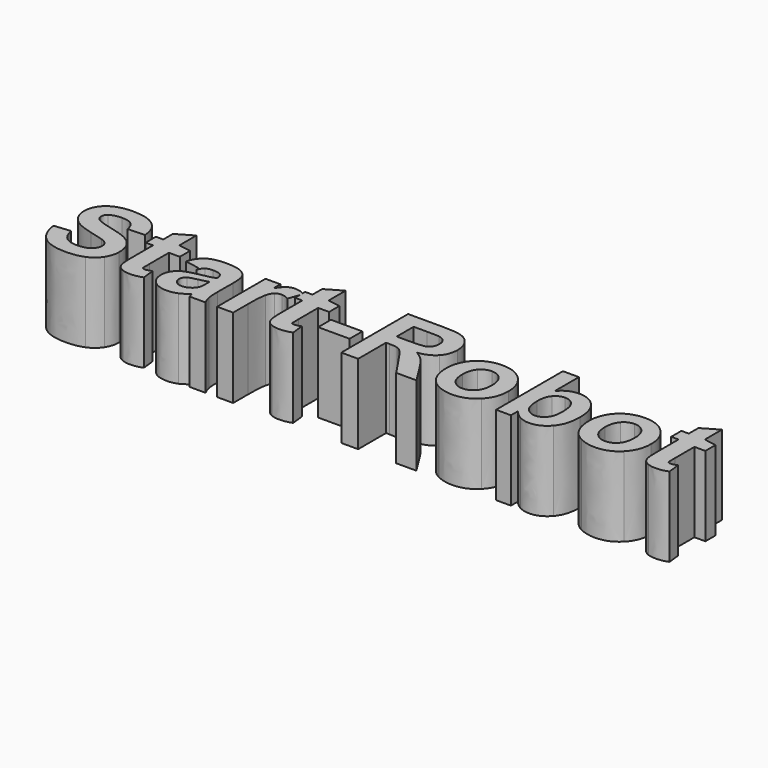
from build123d import *

# Parameters (mm, degrees)
EXTRUDE006_DEPTH = 5
EXTRUDE008_DEPTH = 5
EXTRUDE007_DEPTH = 5
EXTRUDE003_DEPTH = 5
EXTRUDE002_DEPTH = 5
EXTRUDE004_DEPTH = 5
EXTRUDE005_DEPTH = 5
EXTRUDE015_DEPTH = 5
EXTRUDE012_DEPTH = 5
EXTRUDE011_DEPTH = 5
EXTRUDE014_DEPTH = 5
EXTRUDE013_DEPTH = 5
EXTRUDE001_DEPTH = 5
EXTRUDE010_DEPTH = 5
EXTRUDE009_DEPTH = 5
EXTRUDE_DEPTH    = 5


with BuildPart() as extrude006:
    # path3035 → Extrude006 (new body)
    with BuildSketch(Plane(origin=(0.650188, -3.771065, 0), x_dir=(0, -1, 0), z_dir=(0, 0, -1))):
        with BuildLine():
            add(Edge.make_bspline(
                [(0.502908, 0.987919), (-0.502908, 0.987919)],
                knots=[0, 0, 3.563917, 3.563917], degree=1))
            add(Edge.make_bspline(
                [(-0.502908, 0.987919), (-0.502908, -0.987919)],
                knots=[0, 0, 7.001004, 7.001004], degree=1))
            add(Edge.make_bspline(
                [(-0.502908, -0.987919), (0.502908, -0.987919)],
                knots=[0, 0, 3.563917, 3.563917], degree=1))
            add(Edge.make_bspline(
                [(0.502908, -0.987919), (0.502908, 0.987919)],
                knots=[0, 0, 7.001004, 7.001004], degree=1))
        make_face()
    extrude(amount=-EXTRUDE006_DEPTH)


with BuildPart() as extrude008:
    # path3037001 → Extrude008 (new body)
    with BuildSketch(Plane(origin=(4.365625, -1.979568, 0), x_dir=(0, 1, 0), z_dir=(0, 0, 1))):
        with BuildLine():
            add(Edge.make_bspline(
                [(-0.66577, 1.070246), (-0.66577, 0.286354)],
                knots=[0, 0, 2.777572, 2.777572], degree=1))
            add(Edge.make_bspline(
                [(-0.66577, 0.286354), (-0.665773, -0.221921), (-0.644297, -0.539296), (-0.601341, -0.665772)],
                knots=[0, 0, 0, 0, 1, 1, 1, 1], degree=3))
            add(Edge.make_bspline(
                [(-0.601341, -0.665772), (-0.558391, -0.792241), (-0.484416, -0.891271), (-0.379417, -0.962864)],
                knots=[0, 0, 0, 0, 1, 1, 1, 1], degree=3))
            add(Edge.make_bspline(
                [(-0.379417, -0.962864), (-0.274424, -1.034448), (-0.143179, -1.070242), (0.014319, -1.070246)],
                knots=[0, 0, 0, 0, 1, 1, 1, 1], degree=3))
            add(Edge.make_bspline(
                [(0.014319, -1.070246), (0.1909, -1.070242), (0.33348, -1.023113), (0.44206, -0.928859)],
                knots=[0, 0, 0, 0, 1, 1, 1, 1], degree=3))
            add(Edge.make_bspline(
                [(0.44206, -0.928859), (0.550631, -0.834598), (0.619237, -0.701563), (0.647876, -0.529754)],
                knots=[0, 0, 0, 0, 1, 1, 1, 1], degree=3))
            add(Edge.make_bspline(
                [(0.647876, -0.529754), (0.659803, -0.443845), (0.665769, -0.186127), (0.665773, 0.2434)],
                knots=[0, 0, 0, 0, 1, 1, 1, 1], degree=3))
            add(Edge.make_bspline(
                [(0.665773, 0.2434), (0.665773, 1.070246)],
                knots=[0, 0, 2.929768, 2.929768], degree=1))
            add(Edge.make_bspline(
                [(0.665773, 1.070246), (-0.66577, 1.070246)],
                knots=[0, 0, 4.718068, 4.718068], degree=1))
        make_face()
    extrude(amount=EXTRUDE008_DEPTH)


with BuildPart() as cut001:
    # path3037 → Extrude007 (new body)
    with BuildSketch(Plane(origin=(4.594708, -3.049812, 0), x_dir=(0, -1, 0), z_dir=(0, 0, -1))):
        with BuildLine():
            add(Edge.make_bspline(
                [(2.623714, 2.358837), (-2.623714, 2.358837)],
                knots=[0, 0, 18.593246, 18.593246], degree=1))
            add(Edge.make_bspline(
                [(-2.623714, 2.358837), (-2.623714, 0.128859)],
                knots=[0, 0, 7.901496, 7.901496], degree=1))
            add(Edge.make_bspline(
                [(-2.623714, 0.128859), (-2.623708, -0.431913), (-2.576579, -0.83937), (-2.482327, -1.093512)],
                knots=[0, 0, 0, 0, 1, 1, 1, 1], degree=3))
            add(Edge.make_bspline(
                [(-2.482327, -1.093512), (-2.388064, -1.347647), (-2.220428, -1.551077), (-1.979418, -1.703803)],
                knots=[0, 0, 0, 0, 1, 1, 1, 1], degree=3))
            add(Edge.make_bspline(
                [(-1.979418, -1.703803), (-1.7384, -1.85652), (-1.462785, -1.932881), (-1.152573, -1.932886)],
                knots=[0, 0, 0, 0, 1, 1, 1, 1], degree=3))
            add(Edge.make_bspline(
                [(-1.152573, -1.932886), (-0.758833, -1.932881), (-0.433703, -1.817147), (-0.177181, -1.585682)],
                knots=[0, 0, 0, 0, 1, 1, 1, 1], degree=3))
            add(Edge.make_bspline(
                [(-0.177181, -1.585682), (0.079346, -1.354209), (0.241016, -1.008199), (0.30783, -0.547651)],
                knots=[0, 0, 0, 0, 1, 1, 1, 1], degree=3))
            add(Edge.make_bspline(
                [(0.30783, -0.547651), (0.441464, -0.77673), (0.58822, -0.965843), (0.748098, -1.114989)],
                knots=[0, 0, 0, 0, 1, 1, 1, 1], degree=3))
            add(Edge.make_bspline(
                [(0.748098, -1.114989), (0.907981, -1.264127), (1.191948, -1.465171), (1.6, -1.718121)],
                knots=[0, 0, 0, 0, 1, 1, 1, 1], degree=3))
            add(Edge.make_bspline(
                [(1.6, -1.718121), (2.623714, -2.358837)],
                knots=[0, 0, 4.279204, 4.279204], degree=1))
            add(Edge.make_bspline(
                [(2.623714, -2.358837), (2.623714, -1.091722)],
                knots=[0, 0, 4.489775, 4.489775], degree=1))
            add(Edge.make_bspline(
                [(2.623714, -1.091722), (1.481879, -0.325727)],
                knots=[0, 0, 4.871931, 4.871931], degree=1))
            add(Edge.make_bspline(
                [(1.481879, -0.325727), (1.073827, -0.053688), (0.816706, 0.132441), (0.710515, 0.232662)],
                knots=[0, 0, 0, 0, 1, 1, 1, 1], degree=3))
            add(Edge.make_bspline(
                [(0.710515, 0.232662), (0.604327, 0.332889), (0.531546, 0.439078), (0.49217, 0.551231)],
                knots=[0, 0, 0, 0, 1, 1, 1, 1], degree=3))
            add(Edge.make_bspline(
                [(0.49217, 0.551231), (0.452799, 0.663388), (0.433112, 0.841165), (0.43311, 1.084564)],
                knots=[0, 0, 0, 0, 1, 1, 1, 1], degree=3))
            add(Edge.make_bspline(
                [(0.43311, 1.084564), (0.43311, 1.299329)],
                knots=[0, 0, 0.760979, 0.760979], degree=1))
            add(Edge.make_bspline(
                [(0.43311, 1.299329), (2.623714, 1.299329)],
                knots=[0, 0, 7.761983, 7.761983], degree=1))
            add(Edge.make_bspline(
                [(2.623714, 1.299329), (2.623714, 2.358837)],
                knots=[0, 0, 3.754161, 3.754161], degree=1))
        make_face()
    extrude(amount=-EXTRUDE007_DEPTH)

    # Cut001: cut Extrude008
    add(extrude008.part, mode=Mode.SUBTRACT)


with BuildPart() as extrude003:
    # path3029001 → Extrude003 (new body)
    with BuildSketch(Plane(origin=(-8.182026, -4.449365, 0), x_dir=(0, 1, 0), z_dir=(0, 0, 1))):
        with BuildLine():
            add(Edge.make_bspline(
                [(0.601343, -0.678301), (0.558388, -0.549439), (0.507083, -0.345412), (0.447428, -0.06622)],
                knots=[0, 0, 0, 0, 1, 1, 1, 1], degree=3))
            add(Edge.make_bspline(
                [(0.447428, -0.06622), (0.387769, 0.212976), (0.329305, 0.395527), (0.272036, 0.481431)],
                knots=[0, 0, 0, 0, 1, 1, 1, 1], degree=3))
            add(Edge.make_bspline(
                [(0.272036, 0.481431), (0.17897, 0.612678), (0.060849, 0.678301), (-0.082326, 0.678299)],
                knots=[0, 0, 0, 0, 1, 1, 1, 1], degree=3))
            add(Edge.make_bspline(
                [(-0.082326, 0.678299), (-0.223118, 0.678301), (-0.344818, 0.625802), (-0.447427, 0.520805)],
                knots=[0, 0, 0, 0, 1, 1, 1, 1], degree=3))
            add(Edge.make_bspline(
                [(-0.447427, 0.520805), (-0.550037, 0.41581), (-0.601343, 0.282178), (-0.601342, 0.11991)],
                knots=[0, 0, 0, 0, 1, 1, 1, 1], degree=3))
            add(Edge.make_bspline(
                [(-0.601342, 0.11991), (-0.601343, -0.061445), (-0.541686, -0.23445), (-0.422371, -0.399106)],
                knots=[0, 0, 0, 0, 1, 1, 1, 1], degree=3))
            add(Edge.make_bspline(
                [(-0.422371, -0.399106), (-0.331693, -0.520804), (-0.220732, -0.600744), (-0.089485, -0.638927)],
                knots=[0, 0, 0, 0, 1, 1, 1, 1], degree=3))
            add(Edge.make_bspline(
                [(-0.089485, -0.638927), (-0.00358, -0.665174), (0.15988, -0.678298), (0.400895, -0.678301)],
                knots=[0, 0, 0, 0, 1, 1, 1, 1], degree=3))
            add(Edge.make_bspline(
                [(0.400895, -0.678301), (0.601343, -0.678301)],
                knots=[0, 0, 0.710246, 0.710246], degree=1))
        make_face()
    extrude(amount=EXTRUDE003_DEPTH)


with BuildPart() as cut:
    # path3029 → Extrude002 (new body)
    with BuildSketch(Plane(origin=(-8.063905, -3.831915, 0), x_dir=(0, -1, 0), z_dir=(0, 0, -1))):
        with BuildLine():
            add(Edge.make_bspline(
                [(-0.8, 0.785682), (-0.964653, 1.698434)],
                knots=[0, 0, 3.286361, 3.286361], degree=1))
            add(Edge.make_bspline(
                [(-0.964653, 1.698434), (-1.332137, 1.595824), (-1.604172, 1.41924), (-1.780761, 1.16868)],
                knots=[0, 0, 0, 0, 1, 1, 1, 1], degree=3))
            add(Edge.make_bspline(
                [(-1.780761, 1.16868), (-1.957341, 0.918121), (-2.045634, 0.545862), (-2.045637, 0.051901)],
                knots=[0, 0, 0, 0, 1, 1, 1, 1], degree=3))
            add(Edge.make_bspline(
                [(-2.045637, 0.051901), (-2.045634, -0.396717), (-1.992539, -0.730796), (-1.886353, -0.950336)],
                knots=[0, 0, 0, 0, 1, 1, 1, 1], degree=3))
            add(Edge.make_bspline(
                [(-1.886353, -0.950336), (-1.78016, -1.16987), (-1.645336, -1.324382), (-1.481879, -1.413871)],
                knots=[0, 0, 0, 0, 1, 1, 1, 1], degree=3))
            add(Edge.make_bspline(
                [(-1.481879, -1.413871), (-1.318416, -1.503353), (-1.018342, -1.548095), (-0.581656, -1.548099)],
                knots=[0, 0, 0, 0, 1, 1, 1, 1], degree=3))
            add(Edge.make_bspline(
                [(-0.581656, -1.548099), (0.592394, -1.53736)],
                knots=[0, 0, 4.160191, 4.160191], degree=1))
            add(Edge.make_bspline(
                [(0.592394, -1.53736), (0.926474, -1.537357), (1.172857, -1.553464), (1.331544, -1.585682)],
                knots=[0, 0, 0, 0, 1, 1, 1, 1], degree=3))
            add(Edge.make_bspline(
                [(1.331544, -1.585682), (1.490232, -1.617894), (1.660254, -1.678147), (1.841611, -1.766443)],
                knots=[0, 0, 0, 0, 1, 1, 1, 1], degree=3))
            add(Edge.make_bspline(
                [(1.841611, -1.766443), (1.841611, -0.771365)],
                knots=[0, 0, 3.525868, 3.525868], degree=1))
            add(Edge.make_bspline(
                [(1.841611, -0.771365), (1.774795, -0.745112), (1.675764, -0.712898), (1.544519, -0.674721)],
                knots=[0, 0, 0, 0, 1, 1, 1, 1], degree=3))
            add(Edge.make_bspline(
                [(1.544519, -0.674721), (1.711559, -0.502906), (1.836838, -0.319163), (1.920358, -0.12349)],
                knots=[0, 0, 0, 0, 1, 1, 1, 1], degree=3))
            add(Edge.make_bspline(
                [(1.920358, -0.12349), (2.003878, 0.072187), (2.045637, 0.280986), (2.045637, 0.502908)],
                knots=[0, 0, 0, 0, 1, 1, 1, 1], degree=3))
            add(Edge.make_bspline(
                [(2.045637, 0.502908), (2.045637, 0.894259), (1.939448, 1.202685), (1.727069, 1.428188)],
                knots=[0, 0, 0, 0, 1, 1, 1, 1], degree=3))
            add(Edge.make_bspline(
                [(1.727069, 1.428188), (1.514691, 1.653691), (1.246235, 1.766443), (0.9217, 1.766443)],
                knots=[0, 0, 0, 0, 1, 1, 1, 1], degree=3))
            add(Edge.make_bspline(
                [(0.9217, 1.766443), (0.706936, 1.766443), (0.515438, 1.715138), (0.347204, 1.612528)],
                knots=[0, 0, 0, 0, 1, 1, 1, 1], degree=3))
            add(Edge.make_bspline(
                [(0.347204, 1.612528), (0.178973, 1.509918), (0.050114, 1.366145), (-0.039374, 1.181208)],
                knots=[0, 0, 0, 0, 1, 1, 1, 1], degree=3))
            add(Edge.make_bspline(
                [(-0.039374, 1.181208), (-0.128857, 0.996272), (-0.207008, 0.729606), (-0.273826, 0.381208)],
                knots=[0, 0, 0, 0, 1, 1, 1, 1], degree=3))
            add(Edge.make_bspline(
                [(-0.273826, 0.381208), (-0.362115, -0.088887), (-0.444442, -0.414614), (-0.520805, -0.595973)],
                knots=[0, 0, 0, 0, 1, 1, 1, 1], degree=3))
            add(Edge.make_bspline(
                [(-0.520805, -0.595973), (-0.714091, -0.595971), (-0.851898, -0.548245), (-0.934228, -0.452797)],
                knots=[0, 0, 0, 0, 1, 1, 1, 1], degree=3))
            add(Edge.make_bspline(
                [(-0.934228, -0.452797), (-1.016552, -0.357343), (-1.057715, -0.177179), (-1.057718, 0.087695)],
                knots=[0, 0, 0, 0, 1, 1, 1, 1], degree=3))
            add(Edge.make_bspline(
                [(-1.057718, 0.087695), (-1.057715, 0.266668), (-1.022517, 0.406265), (-0.952125, 0.506488)],
                knots=[0, 0, 0, 0, 1, 1, 1, 1], degree=3))
            add(Edge.make_bspline(
                [(-0.952125, 0.506488), (-0.881727, 0.606713), (-0.758237, 0.687846), (-0.581655, 0.749888)],
                knots=[0, 0, 0, 0, 1, 1, 1, 1], degree=3))
            add(Edge.make_bspline(
                [(-0.581655, 0.749888), (-0.8, 0.785682)],
                knots=[0, 0, 0.783989, 0.783989], degree=1))
        make_face()
    extrude(amount=-EXTRUDE002_DEPTH)

    # Cut: cut Extrude003
    add(extrude003.part, mode=Mode.SUBTRACT)


with BuildPart() as extrude004:
    # path3031 → Extrude004 (new body)
    with BuildSketch(Plane(origin=(-4.332361, -3.729902, 0), x_dir=(0, -1, 0), z_dir=(0, 0, -1))):
        with BuildLine():
            add(Edge.make_bspline(
                [(1.943624, 0.225503), (1.943624, 1.23132)],
                knots=[0, 0, 3.563917, 3.563917], degree=1))
            add(Edge.make_bspline(
                [(1.943624, 1.23132), (-1.857718, 1.23132)],
                knots=[0, 0, 13.469323, 13.469323], degree=1))
            add(Edge.make_bspline(
                [(-1.857718, 1.23132), (-1.857718, 0.297092)],
                knots=[0, 0, 3.310257, 3.310257], degree=1))
            add(Edge.make_bspline(
                [(-1.857718, 0.297092), (-1.317226, 0.297092)],
                knots=[0, 0, 1.91513, 1.91513], degree=1))
            add(Edge.make_bspline(
                [(-1.317226, 0.297092), (-1.572554, 0.137213), (-1.740787, -0.006561), (-1.821924, -0.134228)],
                knots=[0, 0, 0, 0, 1, 1, 1, 1], degree=3))
            add(Edge.make_bspline(
                [(-1.821924, -0.134228), (-1.903054, -0.261892), (-1.94362, -0.406858), (-1.943624, -0.569127)],
                knots=[0, 0, 0, 0, 1, 1, 1, 1], degree=3))
            add(Edge.make_bspline(
                [(-1.943624, -0.569127), (-1.94362, -0.798208), (-1.880384, -1.018938), (-1.753915, -1.23132)],
                knots=[0, 0, 0, 0, 1, 1, 1, 1], degree=3))
            add(Edge.make_bspline(
                [(-1.753915, -1.23132), (-0.876957, -0.919911)],
                knots=[0, 0, 3.297428, 3.297428], degree=1))
            add(Edge.make_bspline(
                [(-0.876957, -0.919911), (-0.986723, -0.750482), (-1.041608, -0.592988), (-1.041611, -0.447427)],
                knots=[0, 0, 0, 0, 1, 1, 1, 1], degree=3))
            add(Edge.make_bspline(
                [(-1.041611, -0.447427), (-1.041608, -0.306635), (-1.002831, -0.187321), (-0.92528, -0.089485)],
                knots=[0, 0, 0, 0, 1, 1, 1, 1], degree=3))
            add(Edge.make_bspline(
                [(-0.92528, -0.089485), (-0.847723, 0.008354), (-0.707529, 0.085311), (-0.504698, 0.141387)],
                knots=[0, 0, 0, 0, 1, 1, 1, 1], degree=3))
            add(Edge.make_bspline(
                [(-0.504698, 0.141387), (-0.301862, 0.197466), (0.122895, 0.225505), (0.769575, 0.225503)],
                knots=[0, 0, 0, 0, 1, 1, 1, 1], degree=3))
            add(Edge.make_bspline(
                [(0.769575, 0.225503), (1.943624, 0.225503)],
                knots=[0, 0, 4.160017, 4.160017], degree=1))
        make_face()
    extrude(amount=-EXTRUDE004_DEPTH)


with BuildPart() as extrude005:
    # path3033 → Extrude005 (new body)
    with BuildSketch(Plane(origin=(-2.052272, -3.017598, 0), x_dir=(0, -1, 0), z_dir=(0, 0, -1))):
        with BuildLine():
            add(Edge.make_bspline(
                [(-1.145414, -1.123937), (-0.343624, -1.123937)],
                knots=[0, 0, 2.840987, 2.840987], degree=1))
            add(Edge.make_bspline(
                [(-0.343624, -1.123937), (-0.343624, -0.436689)],
                knots=[0, 0, 2.435132, 2.435132], degree=1))
            add(Edge.make_bspline(
                [(-0.343624, -0.436689), (1.188367, -0.436689)],
                knots=[0, 0, 5.428315, 5.428315], degree=1))
            add(Edge.make_bspline(
                [(1.188367, -0.436689), (1.498584, -0.436687), (1.679345, -0.44325), (1.730649, -0.456376)],
                knots=[0, 0, 0, 0, 1, 1, 1, 1], degree=3))
            add(Edge.make_bspline(
                [(1.730649, -0.456376), (1.764058, -0.502906), (1.780761, -0.55958), (1.780761, -0.626398)],
                knots=[0, 0, 0, 0, 1, 1, 1, 1], degree=3))
            add(Edge.make_bspline(
                [(1.780761, -0.626398), (1.780761, -0.719461), (1.748547, -0.854286), (1.684116, -1.030872)],
                knots=[0, 0, 0, 0, 1, 1, 1, 1], degree=3))
            add(Edge.make_bspline(
                [(1.684116, -1.030872), (2.464429, -1.116778)],
                knots=[0, 0, 2.781594, 2.781594], degree=1))
            add(Edge.make_bspline(
                [(2.464429, -1.116778), (2.564653, -0.882921), (2.614765, -0.618044), (2.614765, -0.322148)],
                knots=[0, 0, 0, 0, 1, 1, 1, 1], degree=3))
            add(Edge.make_bspline(
                [(2.614765, -0.322148), (2.614765, -0.140789), (2.58434, 0.022671), (2.52349, 0.168233)],
                knots=[0, 0, 0, 0, 1, 1, 1, 1], degree=3))
            add(Edge.make_bspline(
                [(2.52349, 0.168233), (2.46264, 0.313797), (2.383893, 0.420583), (2.287248, 0.488591)],
                knots=[0, 0, 0, 0, 1, 1, 1, 1], degree=3))
            add(Edge.make_bspline(
                [(2.287248, 0.488591), (2.190604, 0.5566), (2.059956, 0.603729), (1.895302, 0.629978)],
                knots=[0, 0, 0, 0, 1, 1, 1, 1], degree=3))
            add(Edge.make_bspline(
                [(1.895302, 0.629978), (1.778375, 0.651455), (1.542134, 0.662193), (1.186577, 0.662192)],
                knots=[0, 0, 0, 0, 1, 1, 1, 1], degree=3))
            add(Edge.make_bspline(
                [(1.186577, 0.662192), (-0.470693, 0.662192)],
                knots=[0, 0, 5.872219, 5.872219], degree=1))
            add(Edge.make_bspline(
                [(-0.470693, 0.662192), (-0.470693, 1.123937)],
                knots=[0, 0, 1.636104, 1.636104], degree=1))
            add(Edge.make_bspline(
                [(-0.470693, 1.123937), (-1.272483, 1.123937)],
                knots=[0, 0, 2.840987, 2.840987], degree=1))
            add(Edge.make_bspline(
                [(-1.272483, 1.123937), (-1.272483, 0.662192)],
                knots=[0, 0, 1.636104, 1.636104], degree=1))
            add(Edge.make_bspline(
                [(-1.272483, 0.662192), (-2.02774, 0.662192)],
                knots=[0, 0, 2.676108, 2.676108], degree=1))
            add(Edge.make_bspline(
                [(-2.02774, 0.662192), (-2.614765, -0.347203)],
                knots=[0, 0, 4.137451, 4.137451], degree=1))
            add(Edge.make_bspline(
                [(-2.614765, -0.347203), (-1.272483, -0.347203)],
                knots=[0, 0, 4.756117, 4.756117], degree=1))
            add(Edge.make_bspline(
                [(-1.272483, -0.347203), (-1.145414, -1.123937)],
                knots=[0, 0, 2.788792, 2.788792], degree=1))
        make_face()
    extrude(amount=-EXTRUDE005_DEPTH)


with BuildPart() as extrude015:
    # path3045 → Extrude015 (new body)
    with BuildSketch(Plane(origin=(21.586207, -3.017598, 0), x_dir=(0, -1, 0), z_dir=(0, 0, -1))):
        with BuildLine():
            add(Edge.make_bspline(
                [(-1.145414, -1.123937), (-0.343624, -1.123937)],
                knots=[0, 0, 2.840987, 2.840987], degree=1))
            add(Edge.make_bspline(
                [(-0.343624, -1.123937), (-0.343624, -0.436689)],
                knots=[0, 0, 2.435131, 2.435131], degree=1))
            add(Edge.make_bspline(
                [(-0.343624, -0.436689), (1.188367, -0.436689)],
                knots=[0, 0, 5.428315, 5.428315], degree=1))
            add(Edge.make_bspline(
                [(1.188367, -0.436689), (1.498584, -0.436687), (1.679345, -0.44325), (1.730649, -0.456376)],
                knots=[0, 0, 0, 0, 1, 1, 1, 1], degree=3))
            add(Edge.make_bspline(
                [(1.730649, -0.456376), (1.764058, -0.502907), (1.780761, -0.559581), (1.780761, -0.626399)],
                knots=[0, 0, 0, 0, 1, 1, 1, 1], degree=3))
            add(Edge.make_bspline(
                [(1.780761, -0.626399), (1.780761, -0.719462), (1.748547, -0.854286), (1.684116, -1.030873)],
                knots=[0, 0, 0, 0, 1, 1, 1, 1], degree=3))
            add(Edge.make_bspline(
                [(1.684116, -1.030873), (2.464429, -1.116779)],
                knots=[0, 0, 2.781594, 2.781594], degree=1))
            add(Edge.make_bspline(
                [(2.464429, -1.116779), (2.564653, -0.882922), (2.614765, -0.618045), (2.614765, -0.322148)],
                knots=[0, 0, 0, 0, 1, 1, 1, 1], degree=3))
            add(Edge.make_bspline(
                [(2.614765, -0.322148), (2.614765, -0.14079), (2.58434, 0.02267), (2.52349, 0.168232)],
                knots=[0, 0, 0, 0, 1, 1, 1, 1], degree=3))
            add(Edge.make_bspline(
                [(2.52349, 0.168232), (2.46264, 0.313796), (2.383893, 0.420582), (2.287248, 0.48859)],
                knots=[0, 0, 0, 0, 1, 1, 1, 1], degree=3))
            add(Edge.make_bspline(
                [(2.287248, 0.48859), (2.190604, 0.5566), (2.059956, 0.603729), (1.895302, 0.629977)],
                knots=[0, 0, 0, 0, 1, 1, 1, 1], degree=3))
            add(Edge.make_bspline(
                [(1.895302, 0.629977), (1.778375, 0.651454), (1.542134, 0.662192), (1.186577, 0.662192)],
                knots=[0, 0, 0, 0, 1, 1, 1, 1], degree=3))
            add(Edge.make_bspline(
                [(1.186577, 0.662192), (-0.470693, 0.662192)],
                knots=[0, 0, 5.872219, 5.872219], degree=1))
            add(Edge.make_bspline(
                [(-0.470693, 0.662192), (-0.470693, 1.123937)],
                knots=[0, 0, 1.636104, 1.636104], degree=1))
            add(Edge.make_bspline(
                [(-0.470693, 1.123937), (-1.272483, 1.123937)],
                knots=[0, 0, 2.840987, 2.840987], degree=1))
            add(Edge.make_bspline(
                [(-1.272483, 1.123937), (-1.272483, 0.662192)],
                knots=[0, 0, 1.636104, 1.636104], degree=1))
            add(Edge.make_bspline(
                [(-1.272483, 0.662192), (-2.02774, 0.662192)],
                knots=[0, 0, 2.676108, 2.676108], degree=1))
            add(Edge.make_bspline(
                [(-2.02774, 0.662192), (-2.614765, -0.347204)],
                knots=[0, 0, 4.137451, 4.137451], degree=1))
            add(Edge.make_bspline(
                [(-2.614765, -0.347204), (-1.272483, -0.347204)],
                knots=[0, 0, 4.756117, 4.756117], degree=1))
            add(Edge.make_bspline(
                [(-1.272483, -0.347204), (-1.145414, -1.123937)],
                knots=[0, 0, 2.788787, 2.788787], degree=1))
        make_face()
    extrude(amount=-EXTRUDE015_DEPTH)


with BuildPart() as extrude012:
    # path3041001 → Extrude012 (new body)
    with BuildSketch(Plane(origin=(13.80097, -3.760327, 0), x_dir=(0, 1, 0), z_dir=(0, 0, 1))):
        with BuildLine():
            add(Edge.make_bspline(
                [(0.069799, 0.841163), (-0.323939, 0.841164), (-0.615064, 0.779121), (-0.803579, 0.655033)],
                knots=[0, 0, 0, 0, 1, 1, 1, 1], degree=3))
            add(Edge.make_bspline(
                [(-0.803579, 0.655033), (-1.070843, 0.480836), (-1.204475, 0.249367), (-1.204474, -0.039374)],
                knots=[0, 0, 0, 0, 1, 1, 1, 1], degree=3))
            add(Edge.make_bspline(
                [(-1.204474, -0.039374), (-1.204475, -0.261296), (-1.10962, -0.450408), (-0.91991, -0.606712)],
                knots=[0, 0, 0, 0, 1, 1, 1, 1], degree=3))
            add(Edge.make_bspline(
                [(-0.91991, -0.606712), (-0.730202, -0.76301), (-0.431321, -0.841161), (-0.023266, -0.841164)],
                knots=[0, 0, 0, 0, 1, 1, 1, 1], degree=3))
            add(Edge.make_bspline(
                [(-0.023266, -0.841164), (0.411035, -0.841161), (0.724233, -0.762414), (0.916331, -0.604923)],
                knots=[0, 0, 0, 0, 1, 1, 1, 1], degree=3))
            add(Edge.make_bspline(
                [(0.916331, -0.604923), (1.108424, -0.447425), (1.204471, -0.245785), (1.204475, -1e-06)],
                knots=[0, 0, 0, 0, 1, 1, 1, 1], degree=3))
            add(Edge.make_bspline(
                [(1.204475, -1e-06), (1.204471, 0.241015), (1.11081, 0.441463), (0.92349, 0.601341)],
                knots=[0, 0, 0, 0, 1, 1, 1, 1], degree=3))
            add(Edge.make_bspline(
                [(0.92349, 0.601341), (0.736165, 0.761224), (0.451601, 0.841164), (0.069799, 0.841163)],
                knots=[0, 0, 0, 0, 1, 1, 1, 1], degree=3))
        make_face()
    extrude(amount=EXTRUDE012_DEPTH)


with BuildPart() as cut003:
    # path3041 → Extrude011 (new body)
    with BuildSketch(Plane(origin=(13.817079, -3.092765, 0), x_dir=(0, -1, 0), z_dir=(0, 0, -1))):
        with BuildLine():
            add(Edge.make_bspline(
                [(2.580761, 1.855928), (-2.666667, 1.855928)],
                knots=[0, 0, 18.593246, 18.593246], degree=1))
            add(Edge.make_bspline(
                [(-2.666667, 1.855928), (-2.666667, 0.850112)],
                knots=[0, 0, 3.563916, 3.563916], degree=1))
            add(Edge.make_bspline(
                [(-2.666667, 0.850112), (-0.776734, 0.850112)],
                knots=[0, 0, 6.696612, 6.696612], degree=1))
            add(Edge.make_bspline(
                [(-0.776734, 0.850112), (-1.129899, 0.539898), (-1.306484, 0.172411), (-1.306488, -0.252349)],
                knots=[0, 0, 0, 0, 1, 1, 1, 1], degree=3))
            add(Edge.make_bspline(
                [(-1.306488, -0.252349), (-1.306484, -0.715284), (-1.138848, -1.098281), (-0.803579, -1.401342)],
                knots=[0, 0, 0, 0, 1, 1, 1, 1], degree=3))
            add(Edge.make_bspline(
                [(-0.803579, -1.401342), (-0.468304, -1.704396), (0.013127, -1.855924), (0.640716, -1.855928)],
                knots=[0, 0, 0, 0, 1, 1, 1, 1], degree=3))
            add(Edge.make_bspline(
                [(0.640716, -1.855928), (1.289785, -1.855924), (1.78971, -1.701413), (2.140492, -1.392394)],
                knots=[0, 0, 0, 0, 1, 1, 1, 1], degree=3))
            add(Edge.make_bspline(
                [(2.140492, -1.392394), (2.491275, -1.083367), (2.666667, -0.708125), (2.666667, -0.266667)],
                knots=[0, 0, 0, 0, 1, 1, 1, 1], degree=3))
            add(Edge.make_bspline(
                [(2.666667, -0.266667), (2.666667, -0.049513), (2.612379, 0.164656), (2.503803, 0.375839)],
                knots=[0, 0, 0, 0, 1, 1, 1, 1], degree=3))
            add(Edge.make_bspline(
                [(2.503803, 0.375839), (2.395228, 0.587026), (2.234751, 0.76898), (2.022371, 0.9217)],
                knots=[0, 0, 0, 0, 1, 1, 1, 1], degree=3))
            add(Edge.make_bspline(
                [(2.022371, 0.9217), (2.580761, 0.9217)],
                knots=[0, 0, 1.978545, 1.978545], degree=1))
            add(Edge.make_bspline(
                [(2.580761, 0.9217), (2.580761, 1.855928)],
                knots=[0, 0, 3.310257, 3.310257], degree=1))
        make_face()
    extrude(amount=-EXTRUDE011_DEPTH)

    # Cut003: cut Extrude012
    add(extrude012.part, mode=Mode.SUBTRACT)


with BuildPart() as extrude014:
    # path3043001 → Extrude014 (new body)
    with BuildSketch(Plane(origin=(18.212604, -3.772855, 0), x_dir=(0, 1, 0), z_dir=(0, 0, 1))):
        with BuildLine():
            add(Edge.make_bspline(
                [(0, 0.928858), (-0.377033, 0.92886), (-0.665772, 0.839374), (-0.866219, 0.660402)],
                knots=[0, 0, 0, 0, 1, 1, 1, 1], degree=3))
            add(Edge.make_bspline(
                [(-0.866219, 0.660402), (-1.066667, 0.481433), (-1.166891, 0.260702), (-1.16689, -0.00179)],
                knots=[0, 0, 0, 0, 1, 1, 1, 1], degree=3))
            add(Edge.make_bspline(
                [(-1.16689, -0.00179), (-1.166891, -0.264279), (-1.066667, -0.484413), (-0.866219, -0.662193)],
                knots=[0, 0, 0, 0, 1, 1, 1, 1], degree=3))
            add(Edge.make_bspline(
                [(-0.866219, -0.662193), (-0.665772, -0.839968), (-0.374647, -0.928857), (0.007159, -0.92886)],
                knots=[0, 0, 0, 0, 1, 1, 1, 1], degree=3))
            add(Edge.make_bspline(
                [(0.007159, -0.92886), (0.379416, -0.928857), (0.66577, -0.839968), (0.86622, -0.662193)],
                knots=[0, 0, 0, 0, 1, 1, 1, 1], degree=3))
            add(Edge.make_bspline(
                [(0.86622, -0.662193), (1.066664, -0.484413), (1.166888, -0.264279), (1.166891, -0.00179)],
                knots=[0, 0, 0, 0, 1, 1, 1, 1], degree=3))
            add(Edge.make_bspline(
                [(1.166891, -0.00179), (1.166888, 0.260702), (1.066664, 0.481433), (0.86622, 0.660402)],
                knots=[0, 0, 0, 0, 1, 1, 1, 1], degree=3))
            add(Edge.make_bspline(
                [(0.86622, 0.660402), (0.66577, 0.839374), (0.37703, 0.92886), (0, 0.928858)],
                knots=[0, 0, 0, 0, 1, 1, 1, 1], degree=3))
        make_face()
    extrude(amount=EXTRUDE014_DEPTH)


with BuildPart() as cut004:
    # path3043 → Extrude013 (new body)
    with BuildSketch(Plane(origin=(18.214394, -3.772855, 0), x_dir=(0, -1, 0), z_dir=(0, 0, -1))):
        with BuildLine():
            add(Edge.make_bspline(
                [(-0.053691, 1.961521), (-0.387768, 1.961521), (-0.711109, 1.879195), (-1.023714, 1.714541)],
                knots=[0, 0, 0, 0, 1, 1, 1, 1], degree=3))
            add(Edge.make_bspline(
                [(-1.023714, 1.714541), (-1.336313, 1.549889), (-1.574941, 1.31663), (-1.739597, 1.014765)],
                knots=[0, 0, 0, 0, 1, 1, 1, 1], degree=3))
            add(Edge.make_bspline(
                [(-1.739597, 1.014765), (-1.904247, 0.712902), (-1.986573, 0.375841), (-1.986577, 0.003579)],
                knots=[0, 0, 0, 0, 1, 1, 1, 1], degree=3))
            add(Edge.make_bspline(
                [(-1.986577, 0.003579), (-1.986573, -0.571511), (-1.799847, -1.042801), (-1.426398, -1.410291)],
                knots=[0, 0, 0, 0, 1, 1, 1, 1], degree=3))
            add(Edge.make_bspline(
                [(-1.426398, -1.410291), (-1.052943, -1.777774), (-0.581056, -1.961517), (-0.010738, -1.961521)],
                knots=[0, 0, 0, 0, 1, 1, 1, 1], degree=3))
            add(Edge.make_bspline(
                [(-0.010738, -1.961521), (0.564356, -1.961517), (1.041015, -1.775984), (1.419239, -1.404922)],
                knots=[0, 0, 0, 0, 1, 1, 1, 1], degree=3))
            add(Edge.make_bspline(
                [(1.419239, -1.404922), (1.797465, -1.033852), (1.986577, -0.566738), (1.986577, -0.00358)],
                knots=[0, 0, 0, 0, 1, 1, 1, 1], degree=3))
            add(Edge.make_bspline(
                [(1.986577, -0.00358), (1.986577, 0.344819), (1.90783, 0.677108), (1.750335, 0.993288)],
                knots=[0, 0, 0, 0, 1, 1, 1, 1], degree=3))
            add(Edge.make_bspline(
                [(1.750335, 0.993288), (1.592841, 1.309471), (1.361969, 1.549889), (1.057718, 1.714541)],
                knots=[0, 0, 0, 0, 1, 1, 1, 1], degree=3))
            add(Edge.make_bspline(
                [(1.057718, 1.714541), (0.753469, 1.879195), (0.382999, 1.961521), (-0.053691, 1.961521)],
                knots=[0, 0, 0, 0, 1, 1, 1, 1], degree=3))
        make_face()
    extrude(amount=-EXTRUDE013_DEPTH)

    # Cut004: cut Extrude014
    add(extrude014.part, mode=Mode.SUBTRACT)


with BuildPart() as extrude001:
    # path3027 → Extrude001 (new body)
    with BuildSketch(Plane(origin=(-11.430348, -3.017598, 0), x_dir=(0, -1, 0), z_dir=(0, 0, -1))):
        with BuildLine():
            add(Edge.make_bspline(
                [(-1.145414, -1.123937), (-0.343624, -1.123937)],
                knots=[0, 0, 2.840987, 2.840987], degree=1))
            add(Edge.make_bspline(
                [(-0.343624, -1.123937), (-0.343624, -0.436689)],
                knots=[0, 0, 2.435132, 2.435132], degree=1))
            add(Edge.make_bspline(
                [(-0.343624, -0.436689), (1.188367, -0.436689)],
                knots=[0, 0, 5.428315, 5.428315], degree=1))
            add(Edge.make_bspline(
                [(1.188367, -0.436689), (1.498584, -0.436687), (1.679345, -0.44325), (1.730649, -0.456376)],
                knots=[0, 0, 0, 0, 1, 1, 1, 1], degree=3))
            add(Edge.make_bspline(
                [(1.730649, -0.456376), (1.764058, -0.502907), (1.780761, -0.559581), (1.780761, -0.626399)],
                knots=[0, 0, 0, 0, 1, 1, 1, 1], degree=3))
            add(Edge.make_bspline(
                [(1.780761, -0.626399), (1.780761, -0.719462), (1.748547, -0.854286), (1.684116, -1.030873)],
                knots=[0, 0, 0, 0, 1, 1, 1, 1], degree=3))
            add(Edge.make_bspline(
                [(1.684116, -1.030873), (2.464429, -1.116779)],
                knots=[0, 0, 2.781594, 2.781594], degree=1))
            add(Edge.make_bspline(
                [(2.464429, -1.116779), (2.564653, -0.882922), (2.614765, -0.618045), (2.614765, -0.322148)],
                knots=[0, 0, 0, 0, 1, 1, 1, 1], degree=3))
            add(Edge.make_bspline(
                [(2.614765, -0.322148), (2.614765, -0.14079), (2.58434, 0.02267), (2.52349, 0.168232)],
                knots=[0, 0, 0, 0, 1, 1, 1, 1], degree=3))
            add(Edge.make_bspline(
                [(2.52349, 0.168232), (2.46264, 0.313796), (2.383893, 0.420582), (2.287248, 0.48859)],
                knots=[0, 0, 0, 0, 1, 1, 1, 1], degree=3))
            add(Edge.make_bspline(
                [(2.287248, 0.48859), (2.190604, 0.5566), (2.059956, 0.603729), (1.895302, 0.629977)],
                knots=[0, 0, 0, 0, 1, 1, 1, 1], degree=3))
            add(Edge.make_bspline(
                [(1.895302, 0.629977), (1.778375, 0.651454), (1.542134, 0.662192), (1.186577, 0.662192)],
                knots=[0, 0, 0, 0, 1, 1, 1, 1], degree=3))
            add(Edge.make_bspline(
                [(1.186577, 0.662192), (-0.470693, 0.662192)],
                knots=[0, 0, 5.872219, 5.872219], degree=1))
            add(Edge.make_bspline(
                [(-0.470693, 0.662192), (-0.470693, 1.123937)],
                knots=[0, 0, 1.636105, 1.636105], degree=1))
            add(Edge.make_bspline(
                [(-0.470693, 1.123937), (-1.272483, 1.123937)],
                knots=[0, 0, 2.840987, 2.840987], degree=1))
            add(Edge.make_bspline(
                [(-1.272483, 1.123937), (-1.272483, 0.662192)],
                knots=[0, 0, 1.636105, 1.636105], degree=1))
            add(Edge.make_bspline(
                [(-1.272483, 0.662192), (-2.02774, 0.662192)],
                knots=[0, 0, 2.676108, 2.676108], degree=1))
            add(Edge.make_bspline(
                [(-2.02774, 0.662192), (-2.614765, -0.347204)],
                knots=[0, 0, 4.13745, 4.13745], degree=1))
            add(Edge.make_bspline(
                [(-2.614765, -0.347204), (-1.272483, -0.347204)],
                knots=[0, 0, 4.756117, 4.756117], degree=1))
            add(Edge.make_bspline(
                [(-1.272483, -0.347204), (-1.145414, -1.123937)],
                knots=[0, 0, 2.788789, 2.788789], degree=1))
        make_face()
    extrude(amount=-EXTRUDE001_DEPTH)


with BuildPart() as extrude010:
    # path3039001 → Extrude010 (new body)
    with BuildSketch(Plane(origin=(9.24974, -3.772855, 0), x_dir=(0, 1, 0), z_dir=(0, 0, 1))):
        with BuildLine():
            add(Edge.make_bspline(
                [(0, 0.928858), (-0.377033, 0.92886), (-0.665772, 0.839374), (-0.866219, 0.660402)],
                knots=[0, 0, 0, 0, 1, 1, 1, 1], degree=3))
            add(Edge.make_bspline(
                [(-0.866219, 0.660402), (-1.066667, 0.481433), (-1.166891, 0.260702), (-1.16689, -0.00179)],
                knots=[0, 0, 0, 0, 1, 1, 1, 1], degree=3))
            add(Edge.make_bspline(
                [(-1.16689, -0.00179), (-1.166891, -0.264278), (-1.066667, -0.484413), (-0.866219, -0.662193)],
                knots=[0, 0, 0, 0, 1, 1, 1, 1], degree=3))
            add(Edge.make_bspline(
                [(-0.866219, -0.662193), (-0.665772, -0.839968), (-0.374647, -0.928856), (0.007159, -0.92886)],
                knots=[0, 0, 0, 0, 1, 1, 1, 1], degree=3))
            add(Edge.make_bspline(
                [(0.007159, -0.92886), (0.379416, -0.928856), (0.66577, -0.839968), (0.86622, -0.662193)],
                knots=[0, 0, 0, 0, 1, 1, 1, 1], degree=3))
            add(Edge.make_bspline(
                [(0.86622, -0.662193), (1.066664, -0.484413), (1.166888, -0.264278), (1.166891, -0.00179)],
                knots=[0, 0, 0, 0, 1, 1, 1, 1], degree=3))
            add(Edge.make_bspline(
                [(1.166891, -0.00179), (1.166888, 0.260702), (1.066664, 0.481433), (0.86622, 0.660402)],
                knots=[0, 0, 0, 0, 1, 1, 1, 1], degree=3))
            add(Edge.make_bspline(
                [(0.86622, 0.660402), (0.66577, 0.839374), (0.37703, 0.92886), (0, 0.928858)],
                knots=[0, 0, 0, 0, 1, 1, 1, 1], degree=3))
        make_face()
    extrude(amount=EXTRUDE010_DEPTH)


with BuildPart() as cut002:
    # path3039 → Extrude009 (new body)
    with BuildSketch(Plane(origin=(9.25153, -3.772855, 0), x_dir=(0, -1, 0), z_dir=(0, 0, -1))):
        with BuildLine():
            add(Edge.make_bspline(
                [(-0.053691, 1.961521), (-0.387768, 1.961521), (-0.711109, 1.879195), (-1.023714, 1.714541)],
                knots=[0, 0, 0, 0, 1, 1, 1, 1], degree=3))
            add(Edge.make_bspline(
                [(-1.023714, 1.714541), (-1.336313, 1.549889), (-1.574941, 1.31663), (-1.739597, 1.014765)],
                knots=[0, 0, 0, 0, 1, 1, 1, 1], degree=3))
            add(Edge.make_bspline(
                [(-1.739597, 1.014765), (-1.904247, 0.712902), (-1.986573, 0.375841), (-1.986577, 0.003579)],
                knots=[0, 0, 0, 0, 1, 1, 1, 1], degree=3))
            add(Edge.make_bspline(
                [(-1.986577, 0.003579), (-1.986573, -0.571511), (-1.799847, -1.042801), (-1.426398, -1.410291)],
                knots=[0, 0, 0, 0, 1, 1, 1, 1], degree=3))
            add(Edge.make_bspline(
                [(-1.426398, -1.410291), (-1.052943, -1.777774), (-0.581056, -1.961517), (-0.010738, -1.961521)],
                knots=[0, 0, 0, 0, 1, 1, 1, 1], degree=3))
            add(Edge.make_bspline(
                [(-0.010738, -1.961521), (0.564356, -1.961517), (1.041015, -1.775984), (1.419239, -1.404922)],
                knots=[0, 0, 0, 0, 1, 1, 1, 1], degree=3))
            add(Edge.make_bspline(
                [(1.419239, -1.404922), (1.797465, -1.033852), (1.986577, -0.566739), (1.986577, -0.00358)],
                knots=[0, 0, 0, 0, 1, 1, 1, 1], degree=3))
            add(Edge.make_bspline(
                [(1.986577, -0.00358), (1.986577, 0.344819), (1.90783, 0.677108), (1.750335, 0.993288)],
                knots=[0, 0, 0, 0, 1, 1, 1, 1], degree=3))
            add(Edge.make_bspline(
                [(1.750335, 0.993288), (1.592841, 1.309471), (1.361969, 1.549889), (1.057718, 1.714541)],
                knots=[0, 0, 0, 0, 1, 1, 1, 1], degree=3))
            add(Edge.make_bspline(
                [(1.057718, 1.714541), (0.753469, 1.879195), (0.382999, 1.961521), (-0.053691, 1.961521)],
                knots=[0, 0, 0, 0, 1, 1, 1, 1], degree=3))
        make_face()
    extrude(amount=-EXTRUDE009_DEPTH)

    # Cut002: cut Extrude010
    add(extrude010.part, mode=Mode.SUBTRACT)


with BuildPart() as nombre:
    # path3025 → Extrude (new body)
    with BuildSketch(Plane(origin=(-15.074196, -3.051602, 0), x_dir=(0, -1, 0), z_dir=(0, 0, -1))):
        with BuildLine():
            add(Edge.make_bspline(
                [(0.914541, 2.133333), (0.814318, 1.102461)],
                knots=[0, 0, 3.66992, 3.66992], degree=1))
            add(Edge.make_bspline(
                [(0.814318, 1.102461), (1.16033, 1.040419), (1.414468, 0.914543), (1.576734, 0.724832)],
                knots=[0, 0, 0, 0, 1, 1, 1, 1], degree=3))
            add(Edge.make_bspline(
                [(1.576734, 0.724832), (1.739002, 0.535125), (1.820135, 0.279197), (1.820134, -0.042953)],
                knots=[0, 0, 0, 0, 1, 1, 1, 1], degree=3))
            add(Edge.make_bspline(
                [(1.820134, -0.042953), (1.820135, -0.384188), (1.74795, -0.641309), (1.603579, -0.814318)],
                knots=[0, 0, 0, 0, 1, 1, 1, 1], degree=3))
            add(Edge.make_bspline(
                [(1.603579, -0.814318), (1.459211, -0.987319), (1.290381, -1.073822), (1.097092, -1.073826)],
                knots=[0, 0, 0, 0, 1, 1, 1, 1], degree=3))
            add(Edge.make_bspline(
                [(1.097092, -1.073826), (0.973007, -1.073822), (0.867414, -1.037431), (0.780313, -0.964653)],
                knots=[0, 0, 0, 0, 1, 1, 1, 1], degree=3))
            add(Edge.make_bspline(
                [(0.780313, -0.964653), (0.693216, -0.891869), (0.617452, -0.764799), (0.55302, -0.583445)],
                knots=[0, 0, 0, 0, 1, 1, 1, 1], degree=3))
            add(Edge.make_bspline(
                [(0.55302, -0.583445), (0.510069, -0.459356), (0.433708, -0.176582), (0.323937, 0.264877)],
                knots=[0, 0, 0, 0, 1, 1, 1, 1], degree=3))
            add(Edge.make_bspline(
                [(0.323937, 0.264877), (0.183149, 0.832813), (0.010144, 1.231321), (-0.195078, 1.460403)],
                knots=[0, 0, 0, 0, 1, 1, 1, 1], degree=3))
            add(Edge.make_bspline(
                [(-0.195078, 1.460403), (-0.483815, 1.782551), (-0.835791, 1.943624), (-1.251007, 1.943624)],
                knots=[0, 0, 0, 0, 1, 1, 1, 1], degree=3))
            add(Edge.make_bspline(
                [(-1.251007, 1.943624), (-1.518266, 1.943624), (-1.768228, 1.86786), (-2.000895, 1.716331)],
                knots=[0, 0, 0, 0, 1, 1, 1, 1], degree=3))
            add(Edge.make_bspline(
                [(-2.000895, 1.716331), (-2.233552, 1.564803), (-2.410733, 1.346459), (-2.532438, 1.061298)],
                knots=[0, 0, 0, 0, 1, 1, 1, 1], degree=3))
            add(Edge.make_bspline(
                [(-2.532438, 1.061298), (-2.654133, 0.776139), (-2.714983, 0.431918), (-2.714989, 0.028635)],
                knots=[0, 0, 0, 0, 1, 1, 1, 1], degree=3))
            add(Edge.make_bspline(
                [(-2.714989, 0.028635), (-2.714983, -0.629975), (-2.570614, -1.125723), (-2.281879, -1.458613)],
                knots=[0, 0, 0, 0, 1, 1, 1, 1], degree=3))
            add(Edge.make_bspline(
                [(-2.281879, -1.458613), (-1.993135, -1.791495), (-1.607751, -1.966289), (-1.125727, -1.982998)],
                knots=[0, 0, 0, 0, 1, 1, 1, 1], degree=3))
            add(Edge.make_bspline(
                [(-1.125727, -1.982998), (-1.079195, -0.92349)],
                knots=[0, 0, 3.75778, 3.75778], degree=1))
            add(Edge.make_bspline(
                [(-1.079195, -0.92349), (-1.34884, -0.878147), (-1.542725, -0.780907), (-1.66085, -0.631767)],
                knots=[0, 0, 0, 0, 1, 1, 1, 1], degree=3))
            add(Edge.make_bspline(
                [(-1.66085, -0.631767), (-1.778966, -0.482622), (-1.838027, -0.258909), (-1.838031, 0.039373)],
                knots=[0, 0, 0, 0, 1, 1, 1, 1], degree=3))
            add(Edge.make_bspline(
                [(-1.838031, 0.039373), (-1.838027, 0.347206), (-1.77479, 0.588219), (-1.648322, 0.762416)],
                knots=[0, 0, 0, 0, 1, 1, 1, 1], degree=3))
            add(Edge.make_bspline(
                [(-1.648322, 0.762416), (-1.567184, 0.874573), (-1.458609, 0.93065), (-1.322595, 0.930649)],
                knots=[0, 0, 0, 0, 1, 1, 1, 1], degree=3))
            add(Edge.make_bspline(
                [(-1.322595, 0.930649), (-1.198505, 0.93065), (-1.092315, 0.878152), (-1.004027, 0.773154)],
                knots=[0, 0, 0, 0, 1, 1, 1, 1], degree=3))
            add(Edge.make_bspline(
                [(-1.004027, 0.773154), (-0.891868, 0.639524), (-0.774941, 0.314991), (-0.653244, -0.200447)],
                knots=[0, 0, 0, 0, 1, 1, 1, 1], degree=3))
            add(Edge.make_bspline(
                [(-0.653244, -0.200447), (-0.53154, -0.715881), (-0.405664, -1.097088), (-0.275615, -1.344072)],
                knots=[0, 0, 0, 0, 1, 1, 1, 1], degree=3))
            add(Edge.make_bspline(
                [(-0.275615, -1.344072), (-0.14556, -1.591048), (0.032217, -1.784336), (0.257718, -1.923937)],
                knots=[0, 0, 0, 0, 1, 1, 1, 1], degree=3))
            add(Edge.make_bspline(
                [(0.257718, -1.923937), (0.483224, -2.06353), (0.761821, -2.133329), (1.093512, -2.133333)],
                knots=[0, 0, 0, 0, 1, 1, 1, 1], degree=3))
            add(Edge.make_bspline(
                [(1.093512, -2.133333), (1.394185, -2.133329), (1.675765, -2.049809), (1.938255, -1.882774)],
                knots=[0, 0, 0, 0, 1, 1, 1, 1], degree=3))
            add(Edge.make_bspline(
                [(1.938255, -1.882774), (2.200746, -1.71573), (2.395824, -1.479489), (2.52349, -1.174049)],
                knots=[0, 0, 0, 0, 1, 1, 1, 1], degree=3))
            add(Edge.make_bspline(
                [(2.52349, -1.174049), (2.651156, -0.868602), (2.714989, -0.487991), (2.714989, -0.032215)],
                knots=[0, 0, 0, 0, 1, 1, 1, 1], degree=3))
            add(Edge.make_bspline(
                [(2.714989, -0.032215), (2.714989, 0.631173), (2.56167, 1.140643), (2.255033, 1.496197)],
                knots=[0, 0, 0, 0, 1, 1, 1, 1], degree=3))
            add(Edge.make_bspline(
                [(2.255033, 1.496197), (1.948397, 1.851753), (1.501567, 2.064132), (0.914541, 2.133333)],
                knots=[0, 0, 0, 0, 1, 1, 1, 1], degree=3))
        make_face()
    extrude(amount=-EXTRUDE_DEPTH)

    # Fusion: union Extrude006, Cut001, Cut, Extrude004, Extrude005, Extrude015, Cut003, Cut004, Extrude001, Cut002
    add(extrude006.part)
    add(cut001.part)
    add(cut.part)
    add(extrude004.part)
    add(extrude005.part)
    add(extrude015.part)
    add(cut003.part)
    add(cut004.part)
    add(extrude001.part)
    add(cut002.part)


solid = nombre.part
